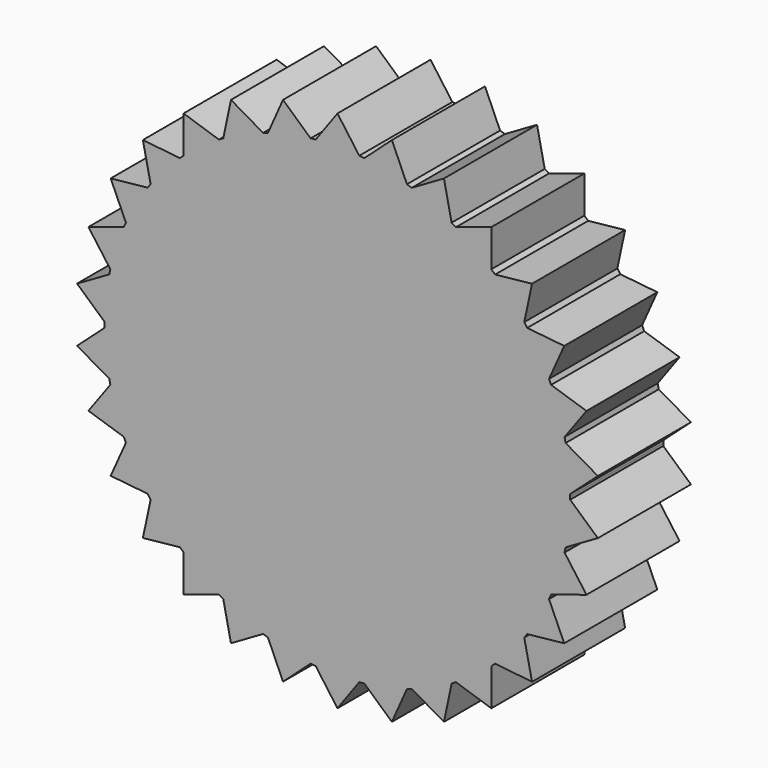
from build123d import *

# Parameters (mm, degrees)
F1_DEPTH = 12.7


with BuildPart() as f1:
    # F0 (on Front) → F1 (new body)
    with BuildSketch(Plane.XZ):
        with BuildLine():
            ThreePointArc((25.398495, -0.276457), (25.399624, -0.13823), (25.4, 0))
            ThreePointArc((25.4, 0), (25.399624, 0.13823), (25.398495, 0.276457))
            ThreePointArc((25.398495, 0.276457), (25.260856, 2.655023), (24.900956, 5.010229))
            ThreePointArc((24.900956, 5.010229), (24.844949, 5.280957), (24.785999, 5.55106))
            ThreePointArc((24.785999, 5.55106), (24.156836, 7.849032), (23.315125, 10.077943))
            ThreePointArc((23.315125, 10.077943), (23.204055, 10.331111), (23.090235, 10.583054))
            ThreePointArc((23.090235, 10.583054), (21.997045, 12.7), (20.710312, 14.705203))
            ThreePointArc((20.710312, 14.705203), (20.549032, 14.929745), (20.385317, 15.152519))
            ThreePointArc((20.385317, 15.152519), (18.875879, 16.995917), (17.200358, 18.689775))
            ThreePointArc((17.200358, 18.689775), (16.995917, 18.875879), (16.789463, 19.059746))
            ThreePointArc((16.789463, 19.059746), (14.929745, 20.549032), (12.938666, 21.857514))
            ThreePointArc((12.938666, 21.857514), (12.7, 21.997045), (12.459829, 22.133971))
            ThreePointArc((12.459829, 22.133971), (10.331111, 23.204055), (8.111493, 24.069975))
            ThreePointArc((8.111493, 24.069975), (7.849032, 24.156836), (7.585641, 24.240834))
            ThreePointArc((7.585641, 24.240834), (5.280957, 24.844949), (2.929808, 25.230462))
            ThreePointArc((2.929808, 25.230462), (2.655023, 25.260856), (2.379924, 25.288257))
            ThreePointArc((2.379924, 25.288257), (1.191273, 25.372049), (0, 25.4))
            ThreePointArc((0, 25.4), (-1.191273, 25.372049), (-2.379924, 25.288257))
            ThreePointArc((-2.379924, 25.288257), (-2.655023, 25.260856), (-2.929808, 25.230462))
            ThreePointArc((-2.929808, 25.230462), (-5.280957, 24.844949), (-7.585641, 24.240834))
            ThreePointArc((-7.585641, 24.240834), (-7.849032, 24.156836), (-8.111493, 24.069975))
            ThreePointArc((-8.111493, 24.069975), (-10.331111, 23.204055), (-12.459829, 22.133971))
            ThreePointArc((-12.459829, 22.133971), (-12.7, 21.997045), (-12.938666, 21.857514))
            ThreePointArc((-12.938666, 21.857514), (-14.929745, 20.549032), (-16.789463, 19.059746))
            ThreePointArc((-16.789463, 19.059746), (-16.995917, 18.875879), (-17.200358, 18.689775))
            ThreePointArc((-17.200358, 18.689775), (-18.875879, 16.995917), (-20.385317, 15.152519))
            ThreePointArc((-20.385317, 15.152519), (-20.549032, 14.929745), (-20.710312, 14.705203))
            ThreePointArc((-20.710312, 14.705203), (-21.997045, 12.7), (-23.090235, 10.583054))
            ThreePointArc((-23.090235, 10.583054), (-23.204055, 10.331111), (-23.315125, 10.077943))
            ThreePointArc((-23.315125, 10.077943), (-24.156836, 7.849032), (-24.785999, 5.55106))
            ThreePointArc((-24.785999, 5.55106), (-24.844949, 5.280957), (-24.900956, 5.010229))
            ThreePointArc((-24.900956, 5.010229), (-25.260856, 2.655023), (-25.398495, 0.276457))
            ThreePointArc((-25.398495, 0.276457), (-25.4, 0), (-25.398495, -0.276457))
            ThreePointArc((-25.398495, -0.276457), (-25.260856, -2.655023), (-24.900956, -5.010229))
            ThreePointArc((-24.900956, -5.010229), (-24.844949, -5.280957), (-24.785999, -5.55106))
            ThreePointArc((-24.785999, -5.55106), (-24.156836, -7.849032), (-23.315125, -10.077943))
            ThreePointArc((-23.315125, -10.077943), (-23.204055, -10.331111), (-23.090235, -10.583054))
            ThreePointArc((-23.090235, -10.583054), (-21.997045, -12.7), (-20.710312, -14.705203))
            ThreePointArc((-20.710312, -14.705203), (-20.549032, -14.929745), (-20.385317, -15.152519))
            ThreePointArc((-20.385317, -15.152519), (-18.875879, -16.995917), (-17.200358, -18.689775))
            ThreePointArc((-17.200358, -18.689775), (-16.995917, -18.875879), (-16.789463, -19.059746))
            ThreePointArc((-16.789463, -19.059746), (-14.929745, -20.549032), (-12.938666, -21.857514))
            ThreePointArc((-12.938666, -21.857514), (-12.7, -21.997045), (-12.459829, -22.133971))
            ThreePointArc((-12.459829, -22.133971), (-10.331111, -23.204055), (-8.111493, -24.069975))
            ThreePointArc((-8.111493, -24.069975), (-7.849032, -24.156836), (-7.585641, -24.240834))
            ThreePointArc((-7.585641, -24.240834), (-5.280957, -24.844949), (-2.929808, -25.230462))
            ThreePointArc((-2.929808, -25.230462), (-2.655023, -25.260856), (-2.379924, -25.288257))
            ThreePointArc((-2.379924, -25.288257), (0, -25.4), (2.379924, -25.288257))
            ThreePointArc((2.379924, -25.288257), (2.655023, -25.260856), (2.929808, -25.230462))
            ThreePointArc((2.929808, -25.230462), (5.280957, -24.844949), (7.585641, -24.240834))
            ThreePointArc((7.585641, -24.240834), (7.849032, -24.156836), (8.111493, -24.069975))
            ThreePointArc((8.111493, -24.069975), (10.331111, -23.204055), (12.459829, -22.133971))
            ThreePointArc((12.459829, -22.133971), (12.7, -21.997045), (12.938666, -21.857514))
            ThreePointArc((12.938666, -21.857514), (14.929745, -20.549032), (16.789463, -19.059746))
            ThreePointArc((16.789463, -19.059746), (16.995917, -18.875879), (17.200358, -18.689775))
            ThreePointArc((17.200358, -18.689775), (18.875879, -16.995917), (20.385317, -15.152519))
            ThreePointArc((20.385317, -15.152519), (20.549032, -14.929745), (20.710312, -14.705203))
            ThreePointArc((20.710312, -14.705203), (21.997045, -12.7), (23.090235, -10.583054))
            ThreePointArc((23.090235, -10.583054), (23.204055, -10.331111), (23.315125, -10.077943))
            ThreePointArc((23.315125, -10.077943), (24.156836, -7.849032), (24.785999, -5.55106))
            ThreePointArc((24.785999, -5.55106), (24.844949, -5.280957), (24.900956, -5.010229))
            ThreePointArc((24.900956, -5.010229), (25.260856, -2.655023), (25.398495, -0.276457))
        make_face()
        with BuildLine():
            ThreePointArc((24.900956, 5.010229), (25.260856, 2.655023), (25.398495, 0.276457))
            Line((25.398495, 0.276457), (28.418463, 2.986901))
            Line((28.418463, 2.986901), (24.900956, 5.010229))
        make_face()
        with BuildLine():
            Line((28.418463, -2.986901), (25.398495, -0.276457))
            ThreePointArc((25.398495, -0.276457), (25.260856, -2.655023), (24.900956, -5.010229))
            Line((24.900956, -5.010229), (28.418463, -2.986901))
        make_face()
        with BuildLine():
            ThreePointArc((23.315125, 10.077943), (24.156836, 7.849032), (24.785999, 5.55106))
            Line((24.785999, 5.55106), (27.17644, 8.830161))
            Line((27.17644, 8.830161), (23.315125, 10.077943))
        make_face()
        with BuildLine():
            Line((27.17644, -8.830161), (24.785999, -5.55106))
            ThreePointArc((24.785999, -5.55106), (24.156836, -7.849032), (23.315125, -10.077943))
            Line((23.315125, -10.077943), (27.17644, -8.830161))
        make_face()
        with BuildLine():
            ThreePointArc((20.710312, 14.705203), (21.997045, 12.7), (23.090235, 10.583054))
            Line((23.090235, 10.583054), (24.746676, 14.2875))
            Line((24.746676, 14.2875), (20.710312, 14.705203))
        make_face()
        with BuildLine():
            Line((24.746676, -14.2875), (23.090235, -10.583054))
            ThreePointArc((23.090235, -10.583054), (21.997045, -12.7), (20.710312, -14.705203))
            Line((20.710312, -14.705203), (24.746676, -14.2875))
        make_face()
        with BuildLine():
            ThreePointArc((17.200358, 18.689775), (18.875879, 16.995917), (20.385317, 15.152519))
            Line((20.385317, 15.152519), (21.235363, 19.120407))
            Line((21.235363, 19.120407), (17.200358, 18.689775))
        make_face()
        with BuildLine():
            Line((21.235363, -19.120407), (20.385317, -15.152519))
            ThreePointArc((20.385317, -15.152519), (18.875879, -16.995917), (17.200358, -18.689775))
            Line((17.200358, -18.689775), (21.235363, -19.120407))
        make_face()
        with BuildLine():
            ThreePointArc((12.938666, 21.857514), (14.929745, 20.549032), (16.789463, 19.059746))
            Line((16.789463, 19.059746), (16.795964, 23.117661))
            Line((16.795964, 23.117661), (12.938666, 21.857514))
        make_face()
        with BuildLine():
            Line((16.795964, -23.117661), (16.789463, -19.059746))
            ThreePointArc((16.789463, -19.059746), (14.929745, -20.549032), (12.938666, -21.857514))
            Line((12.938666, -21.857514), (16.795964, -23.117661))
        make_face()
        with BuildLine():
            ThreePointArc((8.111493, 24.069975), (10.331111, 23.204055), (12.459829, 22.133971))
            Line((12.459829, 22.133971), (11.6225, 26.104561))
            Line((11.6225, 26.104561), (8.111493, 24.069975))
        make_face()
        with BuildLine():
            Line((11.6225, -26.104561), (12.459829, -22.133971))
            ThreePointArc((12.459829, -22.133971), (10.331111, -23.204055), (8.111493, -24.069975))
            Line((8.111493, -24.069975), (11.6225, -26.104561))
        make_face()
        with BuildLine():
            ThreePointArc((2.929808, 25.230462), (5.280957, 24.844949), (7.585641, 24.240834))
            Line((7.585641, 24.240834), (5.941077, 27.950568))
            Line((5.941077, 27.950568), (2.929808, 25.230462))
        make_face()
        with BuildLine():
            Line((5.941077, -27.950568), (7.585641, -24.240834))
            ThreePointArc((7.585641, -24.240834), (5.280957, -24.844949), (2.929808, -25.230462))
            Line((2.929808, -25.230462), (5.941077, -27.950568))
        make_face()
        with BuildLine():
            ThreePointArc((0, 25.4), (1.191273, 25.372049), (2.379924, 25.288257))
            Line((2.379924, 25.288257), (0, 28.575))
            Line((0, 28.575), (0, 25.4))
        make_face()
        with BuildLine():
            Line((0, -28.575), (2.379924, -25.288257))
            ThreePointArc((2.379924, -25.288257), (0, -25.4), (-2.379924, -25.288257))
            Line((-2.379924, -25.288257), (0, -28.575))
        make_face()
        with BuildLine():
            ThreePointArc((-2.379924, 25.288257), (-1.191273, 25.372049), (0, 25.4))
            Line((0, 25.4), (0, 28.575))
            Line((0, 28.575), (-2.379924, 25.288257))
        make_face()
        with BuildLine():
            Line((-5.941077, -27.950568), (-2.929808, -25.230462))
            ThreePointArc((-2.929808, -25.230462), (-5.280957, -24.844949), (-7.585641, -24.240834))
            Line((-7.585641, -24.240834), (-5.941077, -27.950568))
        make_face()
        with BuildLine():
            ThreePointArc((-7.585641, 24.240834), (-5.280957, 24.844949), (-2.929808, 25.230462))
            Line((-2.929808, 25.230462), (-5.941077, 27.950568))
            Line((-5.941077, 27.950568), (-7.585641, 24.240834))
        make_face()
        with BuildLine():
            Line((-11.6225, -26.104561), (-8.111493, -24.069975))
            ThreePointArc((-8.111493, -24.069975), (-10.331111, -23.204055), (-12.459829, -22.133971))
            Line((-12.459829, -22.133971), (-11.6225, -26.104561))
        make_face()
        with BuildLine():
            ThreePointArc((-12.459829, 22.133971), (-10.331111, 23.204055), (-8.111493, 24.069975))
            Line((-8.111493, 24.069975), (-11.6225, 26.104561))
            Line((-11.6225, 26.104561), (-12.459829, 22.133971))
        make_face()
        with BuildLine():
            Line((-16.795964, -23.117661), (-12.938666, -21.857514))
            ThreePointArc((-12.938666, -21.857514), (-14.929745, -20.549032), (-16.789463, -19.059746))
            Line((-16.789463, -19.059746), (-16.795964, -23.117661))
        make_face()
        with BuildLine():
            ThreePointArc((-16.789463, 19.059746), (-14.929745, 20.549032), (-12.938666, 21.857514))
            Line((-12.938666, 21.857514), (-16.795964, 23.117661))
            Line((-16.795964, 23.117661), (-16.789463, 19.059746))
        make_face()
        with BuildLine():
            Line((-21.235363, -19.120407), (-17.200358, -18.689775))
            ThreePointArc((-17.200358, -18.689775), (-18.875879, -16.995917), (-20.385317, -15.152519))
            Line((-20.385317, -15.152519), (-21.235363, -19.120407))
        make_face()
        with BuildLine():
            ThreePointArc((-20.385317, 15.152519), (-18.875879, 16.995917), (-17.200358, 18.689775))
            Line((-17.200358, 18.689775), (-21.235363, 19.120407))
            Line((-21.235363, 19.120407), (-20.385317, 15.152519))
        make_face()
        with BuildLine():
            Line((-24.746676, -14.2875), (-20.710312, -14.705203))
            ThreePointArc((-20.710312, -14.705203), (-21.997045, -12.7), (-23.090235, -10.583054))
            Line((-23.090235, -10.583054), (-24.746676, -14.2875))
        make_face()
        with BuildLine():
            ThreePointArc((-23.090235, 10.583054), (-21.997045, 12.7), (-20.710312, 14.705203))
            Line((-20.710312, 14.705203), (-24.746676, 14.2875))
            Line((-24.746676, 14.2875), (-23.090235, 10.583054))
        make_face()
        with BuildLine():
            Line((-27.17644, -8.830161), (-23.315125, -10.077943))
            ThreePointArc((-23.315125, -10.077943), (-24.156836, -7.849032), (-24.785999, -5.55106))
            Line((-24.785999, -5.55106), (-27.17644, -8.830161))
        make_face()
        with BuildLine():
            ThreePointArc((-24.785999, 5.55106), (-24.156836, 7.849032), (-23.315125, 10.077943))
            Line((-23.315125, 10.077943), (-27.17644, 8.830161))
            Line((-27.17644, 8.830161), (-24.785999, 5.55106))
        make_face()
        with BuildLine():
            Line((-28.418463, -2.986901), (-24.900956, -5.010229))
            ThreePointArc((-24.900956, -5.010229), (-25.260856, -2.655023), (-25.398495, -0.276457))
            Line((-25.398495, -0.276457), (-28.418463, -2.986901))
        make_face()
        with BuildLine():
            ThreePointArc((-25.398495, 0.276457), (-25.260856, 2.655023), (-24.900956, 5.010229))
            Line((-24.900956, 5.010229), (-28.418463, 2.986901))
            Line((-28.418463, 2.986901), (-25.398495, 0.276457))
        make_face()
    extrude(amount=F1_DEPTH)


solid = f1.part
